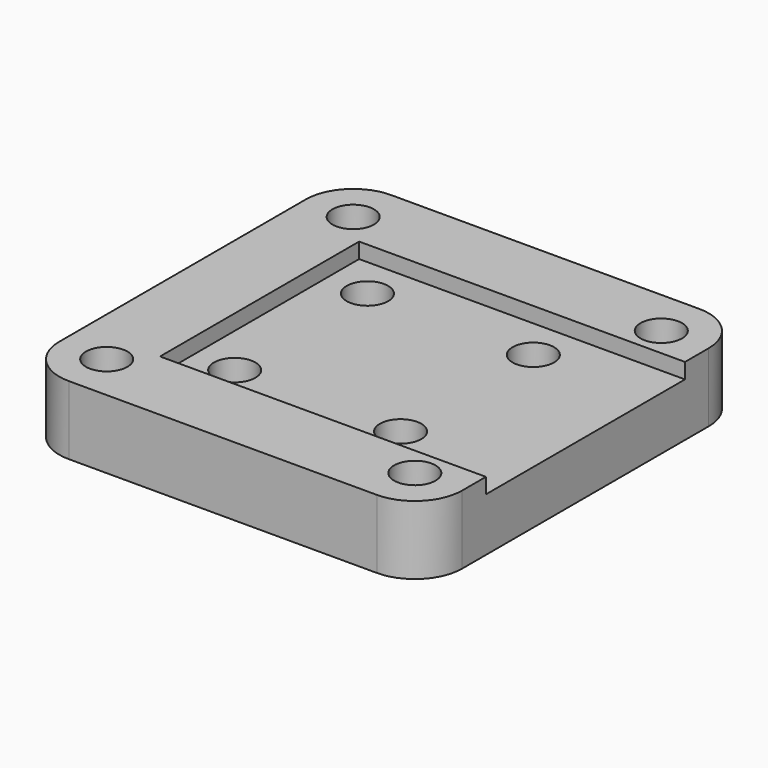
from build123d import *

# Parameters (mm, degrees)
F0_R     = 1.75
F1_DEPTH = 2
F3_DEPTH = 2.5
F4_R     = 1.75
F5_DEPTH = 1.3


with BuildPart() as f1:
    # F0 (on Top) → F1 (new body)
    with BuildSketch(Plane.XY):
        with BuildLine():
            ThreePointArc((-13, -17), (-10.171573, -15.828427), (-9, -13))
            ThreePointArc((-9, -13), (-13, -9), (-17, -13))
            ThreePointArc((-17, -13), (-15.828427, -15.828427), (-13, -17))
        make_face()
        with Locations((-13, -13)):
            Circle(F0_R, mode=Mode.SUBTRACT)
        with BuildLine():
            ThreePointArc((-17, -13), (-13, -9), (-9, -13))
            ThreePointArc((-9, -13), (-10.171573, -15.828427), (-13, -17))
            Line((-13, -17), (13, -17))
            ThreePointArc((13, -17), (10.171573, -10.171573), (17, -13))
            Line((17, -13), (17, 13))
            ThreePointArc((17, 13), (10.171573, 10.171573), (13, 17))
            Line((13, 17), (-13, 17))
            ThreePointArc((-13, 17), (-10.171573, 15.828427), (-9, 13))
            ThreePointArc((-9, 13), (-13, 9), (-17, 13))
            Line((-17, 13), (-17, -13))
        make_face()
        with Locations((-7, -7)):
            Circle(F0_R, mode=Mode.SUBTRACT)
        with Locations((7, -7)):
            Circle(F0_R, mode=Mode.SUBTRACT)
        with Locations((-7, 7)):
            Circle(F0_R, mode=Mode.SUBTRACT)
        with Locations((7, 7)):
            Circle(F0_R, mode=Mode.SUBTRACT)
        with BuildLine():
            ThreePointArc((-13, 17), (-15.828427, 15.828427), (-17, 13))
            ThreePointArc((-17, 13), (-13, 9), (-9, 13))
            ThreePointArc((-9, 13), (-10.171573, 15.828427), (-13, 17))
        make_face()
        with Locations((-13, 13)):
            Circle(F0_R, mode=Mode.SUBTRACT)
        with BuildLine():
            ThreePointArc((17, -13), (10.171573, -10.171573), (13, -17))
            ThreePointArc((13, -17), (15.828427, -15.828427), (17, -13))
        make_face()
        with Locations((13, -13)):
            Circle(F0_R, mode=Mode.SUBTRACT)
        with BuildLine():
            ThreePointArc((17, 13), (15.828427, 15.828427), (13, 17))
            ThreePointArc((13, 17), (10.171573, 10.171573), (17, 13))
        make_face()
        with Locations((13, 13)):
            Circle(F0_R, mode=Mode.SUBTRACT)
    extrude(amount=F1_DEPTH)

    # F2 (on face) → F3 (join)
    with BuildSketch(Plane(origin=(0, 0, 0), x_dir=(1, 0, 0), z_dir=(0, 0, -1))):
        with BuildLine():
            ThreePointArc((-13, 17), (-15.828427, 15.828427), (-17, 13))
            Line((-17, 13), (-17, -13))
            ThreePointArc((-17, -13), (-15.828427, -15.828427), (-13, -17))
            Line((-13, -17), (13, -17))
            ThreePointArc((13, -17), (15.828427, -15.828427), (17, -13))
            Line((17, -13), (17, 13))
            ThreePointArc((17, 13), (15.828427, 15.828427), (13, 17))
            Line((13, 17), (-13, 17))
        make_face()
        Polygon((-11.25, -9.968911), (-9.5, -13), (-11.25, -16.031089), (-14.75, -16.031089), (-16.5, -13), (-14.75, -9.968911), align=None, mode=Mode.SUBTRACT)
        Polygon((-5.25, -3.968911), (-3.5, -7), (-5.25, -10.031089), (-8.75, -10.031089), (-10.5, -7), (-8.75, -3.968911), align=None, mode=Mode.SUBTRACT)
        Polygon((14.75, -9.968911), (16.5, -13), (14.75, -16.031089), (11.25, -16.031089), (9.5, -13), (11.25, -9.968911), align=None, mode=Mode.SUBTRACT)
        Polygon((8.75, -3.968911), (10.5, -7), (8.75, -10.031089), (5.25, -10.031089), (3.5, -7), (5.25, -3.968911), align=None, mode=Mode.SUBTRACT)
        Polygon((-8.75, 10.031089), (-5.25, 10.031089), (-3.5, 7), (-5.25, 3.968911), (-8.75, 3.968911), (-10.5, 7), align=None, mode=Mode.SUBTRACT)
        Polygon((-11.25, 16.031089), (-9.5, 13), (-11.25, 9.968911), (-14.75, 9.968911), (-16.5, 13), (-14.75, 16.031089), align=None, mode=Mode.SUBTRACT)
        Polygon((8.75, 10.031089), (10.5, 7), (8.75, 3.968911), (5.25, 3.968911), (3.5, 7), (5.25, 10.031089), align=None, mode=Mode.SUBTRACT)
        Polygon((11.25, 16.031089), (14.75, 16.031089), (16.5, 13), (14.75, 9.968911), (11.25, 9.968911), (9.5, 13), align=None, mode=Mode.SUBTRACT)
    extrude(amount=F3_DEPTH)

    # F4 (on face) → F5 (join)
    with BuildSketch(Plane.XY.offset(2)):
        with BuildLine():
            Line((-10.5, 10.5), (10.5, 10.5))
            Line((10.5, 10.5), (17, 10.5))
            Line((17, 10.5), (17, 13))
            ThreePointArc((17, 13), (15.828427, 15.828427), (13, 17))
            Line((13, 17), (-13, 17))
            ThreePointArc((-13, 17), (-15.828427, 15.828427), (-17, 13))
            Line((-17, 13), (-17, -13))
            ThreePointArc((-17, -13), (-15.828427, -15.828427), (-13, -17))
            Line((-13, -17), (13, -17))
            ThreePointArc((13, -17), (15.828427, -15.828427), (17, -13))
            Line((17, -13), (17, -10.5))
            Line((17, -10.5), (10.5, -10.5))
            Line((10.5, -10.5), (-10.5, -10.5))
            Line((-10.5, -10.5), (-10.5, 10.5))
        make_face()
        with Locations((-13, -13)):
            Circle(F4_R, mode=Mode.SUBTRACT)
        with Locations((13, -13)):
            Circle(F4_R, mode=Mode.SUBTRACT)
        with Locations((-13, 13)):
            Circle(F4_R, mode=Mode.SUBTRACT)
        with Locations((13, 13)):
            Circle(F4_R, mode=Mode.SUBTRACT)
    extrude(amount=F5_DEPTH)


solid = f1.part
